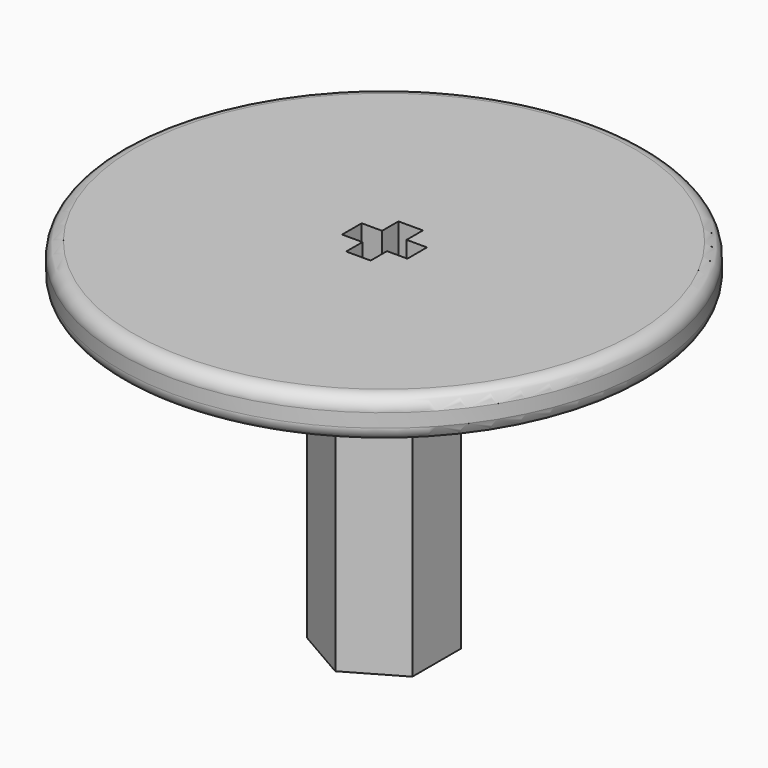
from build123d import *

# Parameters (mm, degrees)
F1_DEPTH  = 17
F2_R      = 4.7
F3_DEPTH  = 6
F4_R      = 19.4
F5_DEPTH  = 3
F6_R      = 1
F7_W      = 1.5
F7_H      = 1.8
F7_W_2    = 1.8
F7_H_2    = 1.5
F8_DEPTH  = 6
F10_DEPTH = 0.5


with BuildPart() as f1:
    # F0 (on Top) → F1 (new body)
    with BuildSketch(Plane.XY):
        Polygon((3.875, -2.2372322931), (3.875, 2.2372322931), (0, 4.4744645862), (-3.875, 2.2372322931), (-3.875, -2.2372322931), (0, -4.4744645862), align=None)
    extrude(amount=-F1_DEPTH)

    # F2 (on face) → F3 (join)
    with BuildSketch(Plane.XY):
        Circle(F2_R)
    extrude(amount=F3_DEPTH)

    # F4 (on face) → F5 (join)
    with BuildSketch(Plane.XY.offset(6)):
        Circle(F4_R)
    extrude(amount=F5_DEPTH)

    # F6
    f6_edges = [f1.edges().sort_by_distance(p)[0] for p in [
        (-19.4, 0, 6),
        (-19.4, 0, 9),
    ]]
    fillet(f6_edges, radius=F6_R)

    # F7 (on face) → F8 (cut)
    with BuildSketch(Plane.XY.offset(9)):
        with Locations((-1.65, 0.05)):
            Rectangle(F7_W, F7_H)
        with Locations((0, 1.7)):
            Rectangle(F7_W_2, F7_H_2)
        with Locations((0, 0.05)):
            Rectangle(F7_W_2, F7_H)
        with Locations((1.65, 0.05)):
            Rectangle(F7_W, F7_H)
        with Locations((0, -1.6)):
            Rectangle(F7_W_2, F7_H_2)
    extrude(amount=-F8_DEPTH, mode=Mode.SUBTRACT)

    # F9 (on face) → F10 (cut)
    with BuildSketch(Plane(origin=(0, 0, 6), x_dir=(1, 0, 0), z_dir=(0, 0, -1))):
        with BuildLine():
            Line((0.12, 16.1495609697), (0.12, 16.3995609697))
            ThreePointArc((0.12, 16.3995609697), (-1.8790989856, 14.4595880123), (0, 12.4031642156))
            Line((0, 12.4031642156), (0, 12.6536801032))
            ThreePointArc((0, 12.6536801032), (-1.6289699135, 14.4595963078), (0.12, 16.1495609697))
        make_face()
        with BuildLine():
            Line((0, 12.6536801032), (0, 12.4031642156))
            ThreePointArc((0, 12.4031642156), (0.1250097944, 12.3995672443), (0.25, 12.4037904418))
            Line((0.25, 12.4037904418), (0.25, 12.6543962211))
            ThreePointArc((0.25, 12.6543962211), (0.1250128042, 12.6495681492), (0, 12.6536801032))
        make_face()
        with BuildLine():
            ThreePointArc((0.25, 12.4037904418), (0.1250097944, 12.3995672443), (0, 12.4031642156))
            Line((0, 12.4031642156), (0, 10.8995609697))
            Line((0, 10.8995609697), (0.25, 10.8995609697))
            Line((0.25, 10.8995609697), (0.25, 12.4037904418))
        make_face()
        with BuildLine():
            Line((0.25, 12.6543962211), (0.25, 12.4037904418))
            ThreePointArc((0.25, 12.4037904418), (1.5794519519, 13.0320815366), (2.12, 14.3995609697))
            Line((2.12, 14.3995609697), (1.87, 14.3995609697))
            ThreePointArc((1.87, 14.3995609697), (1.865506934, 14.2742392103), (1.8520508076, 14.1495609697))
            ThreePointArc((1.8520508076, 14.1495609697), (1.3140216535, 13.1201813189), (0.25, 12.6543962211))
        make_face()
        with BuildLine():
            Line((0, 14.3995609697), (0, 12.6536801032))
            ThreePointArc((0, 12.6536801032), (0.1250128042, 12.6495681492), (0.25, 12.6543962211))
            Line((0.25, 12.6543962211), (0.25, 14.1495609697))
            Line((0.25, 14.1495609697), (1.8520508076, 14.1495609697))
            ThreePointArc((1.8520508076, 14.1495609697), (1.865506934, 14.2742392103), (1.87, 14.3995609697))
            Line((1.87, 14.3995609697), (0, 14.3995609697))
        make_face()
    extrude(amount=-F10_DEPTH, mode=Mode.SUBTRACT)


solid = f1.part
